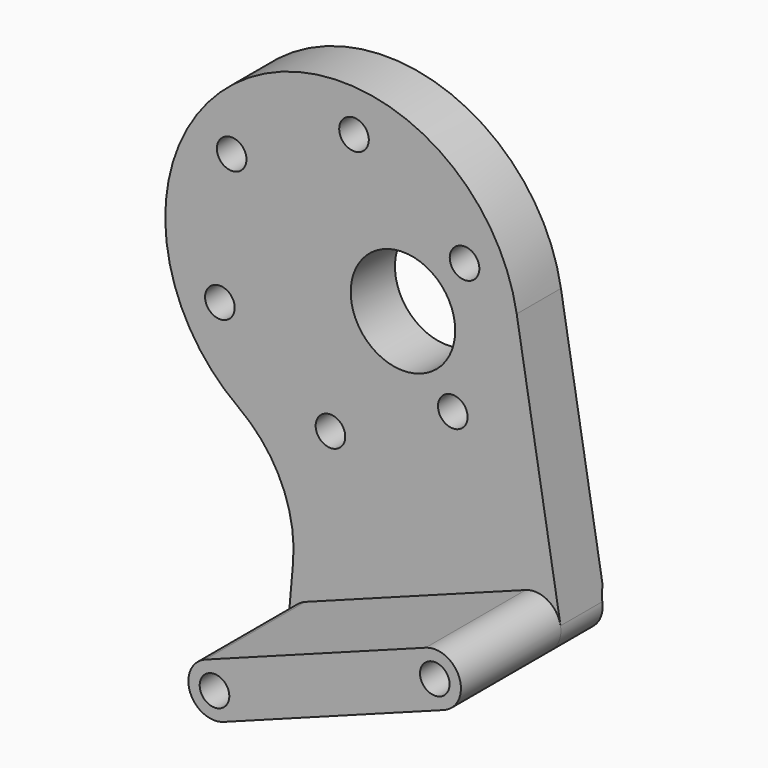
from build123d import *

# Parameters (mm, degrees)
SKETCH_R         = 6
PAD_DEPTH        = 6.35
PAD001_DEPTH     = 14.351
HOLE_D           = 3.4
HOLE_CSINK_D     = 6.7
HOLE_CSINK_ANGLE = 90


with BuildPart() as part:
    # Sketch → Pad (new body)
    with BuildSketch(Plane.XZ):
        with BuildLine():
            ThreePointArc((21.388901, 18.814664), (-9.37148, 32.701744), (-10.552559, -1.027429))
            ThreePointArc((-4.298157, -14.707017), (-5.620109, -7.04185), (-10.552559, -1.027429))
            Line((-4.298157, -14.707017), (-4.826001, -20.740309))
            ThreePointArc((-4.826001, -20.740309), (-3.654583, -23.388806), (-0.789818, -23.812922))
            Line((-0.789818, -23.812922), (24.510486, -14.384528))
            ThreePointArc((24.510486, -14.384528), (26.0609, -13.073491), (26.421251, -11.075305))
            Line((26.421251, -11.075305), (21.388901, 18.814664))
        make_face()
        with Locations((8.324277, 14.830928)):
            Circle(SKETCH_R, mode=Mode.SUBTRACT)
    extrude(amount=PAD_DEPTH)

    # Sketch001 (on Face10 of Pad) → Pad001 (join)
    with BuildSketch(Plane.XZ.offset(6.35)):
        with BuildLine():
            ThreePointArc((-2.885017, -18.190632), (-4.648562, -22.049376), (-0.789818, -23.812922))
            Line((-0.789818, -23.812922), (24.510486, -14.384528))
            ThreePointArc((24.510486, -14.384528), (26.274032, -10.525783), (22.415287, -8.762238))
            Line((-2.885017, -18.190632), (22.415287, -8.762238))
        make_face()
    extrude(amount=PAD001_DEPTH)

    # Hole (through all)
    with Locations(Plane(origin=(0, 0, 0), x_dir=(1, 0, 0), z_dir=(0, 1, 0))):
        with Locations((-1.837417, 21.001777), (23.462887, 11.573383), (15.398685, -21.991601), (2.701828, -30.882036), (-11.345943, -24.331453), (-12.696857, -8.890435), (0, 0), (14.047771, -6.550583)):
            CounterSinkHole(HOLE_D / 2, HOLE_CSINK_D / 2, counter_sink_angle=HOLE_CSINK_ANGLE)


solid = part.part
